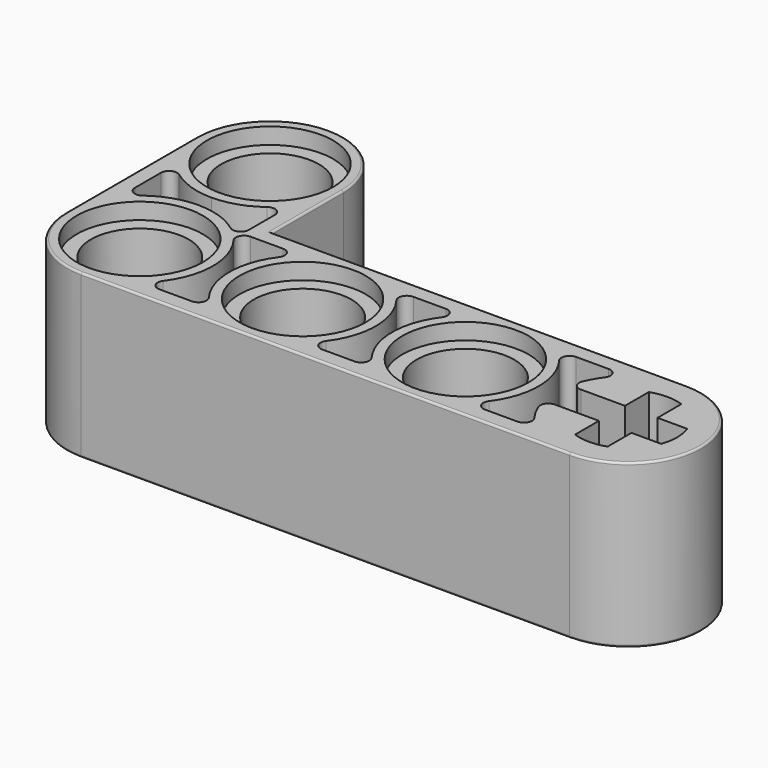
from build123d import *

# Parameters (mm, degrees)
F2_DEPTH  = 8
F3_DEPTH  = 8.001
F4_R      = 2.4
F5_DEPTH  = 8.001
F6_R      = 3.1
F7_DEPTH  = 0.8
F8_R      = 3.1
F9_DEPTH  = 0.8
F10_R     = 0.1
F11_R     = 0.1
F13_DEPTH = 3.1
F15_DEPTH = 3.1


with BuildPart() as f2:
    # F1 (on Top) → F2 (new body)
    with BuildSketch(Plane.XY):
        with BuildLine():
            ThreePointArc((3.6, 8), (0, 11.6), (-3.6, 8))
            Line((-3.6, 8), (-3.6, 0))
            ThreePointArc((-3.6, 0), (-2.5455844123, -2.5455844123), (0, -3.6))
            Line((0, -3.6), (24, -3.6))
            ThreePointArc((24, -3.6), (27.6, 0), (24, 3.6))
            Line((24, 3.6), (3.6, 3.6))
            Line((3.6, 3.6), (3.6, 8))
        make_face()
    extrude(amount=F2_DEPTH)

    # F0 (on Top) → F3 (cut, through all)
    with BuildSketch(Plane.XY):
        with BuildLine():
            Line((20.8, 2.8), (20, 2.8))
            Line((20, 2.8), (19.2, 2.8))
            ThreePointArc((19.2, 2.8), (18.8422291236, 2.5788854382), (18.88, 2.16))
            ThreePointArc((18.88, 2.16), (19.6, 0), (18.88, -2.16))
            ThreePointArc((18.88, -2.16), (18.8422291236, -2.5788854382), (19.2, -2.8))
            Line((19.2, -2.8), (20, -2.8))
            Line((20, -2.8), (20.8, -2.8))
            ThreePointArc((20.8, -2.8), (21.1577708764, -2.5788854382), (21.12, -2.16))
            ThreePointArc((21.12, -2.16), (20.8650842723, -1.7698314554), (20.6627106808, -1.35))
            ThreePointArc((20.6627106808, -1.35), (20.7018581261, -0.9763932023), (21.0335206052, -0.8))
            Line((21.0335206052, -0.8), (23.2, -0.8))
            Line((23.2, -0.8), (23.2, -2.2627416998))
            ThreePointArc((23.2, -2.2627416998), (24, -2.4), (24.8, -2.2627416998))
            Line((24.8, -2.2627416998), (24.8, -0.8))
            Line((24.8, -0.8), (26.2627416998, -0.8))
            ThreePointArc((26.2627416998, -0.8), (26.4, 0), (26.2627416998, 0.8))
            Line((26.2627416998, 0.8), (24.8, 0.8))
            Line((24.8, 0.8), (24.8, 2.2627416998))
            ThreePointArc((24.8, 2.2627416998), (24, 2.4), (23.2, 2.2627416998))
            Line((23.2, 2.2627416998), (23.2, 0.8))
            Line((23.2, 0.8), (21.0335206052, 0.8))
            ThreePointArc((21.0335206052, 0.8), (20.7018581261, 0.9763932023), (20.6627106808, 1.35))
            ThreePointArc((20.6627106808, 1.35), (20.8650842723, 1.7698314554), (21.12, 2.16))
            ThreePointArc((21.12, 2.16), (21.1577708764, 2.5788854382), (20.8, 2.8))
        make_face()
    extrude(amount=F3_DEPTH, mode=Mode.SUBTRACT)

    # F4 (on face) → F5 (cut, through all)
    with BuildSketch(Plane.XY):
        with Locations((16, 0)):
            Circle(F4_R)
        with Locations((8, 0)):
            Circle(F4_R)
        Circle(F4_R)
        with Locations((0, 8)):
            Circle(F4_R)
    extrude(amount=F5_DEPTH, mode=Mode.SUBTRACT)

    # F6 (on face) → F7 (cut)
    with BuildSketch(Plane.XY):
        with Locations((16, 0)):
            Circle(F6_R)
        with Locations((8, 0)):
            Circle(F6_R)
        Circle(F6_R)
        with Locations((0, 8)):
            Circle(F6_R)
    extrude(amount=F7_DEPTH, mode=Mode.SUBTRACT)

    # F8 (on face) → F9 (cut)
    with BuildSketch(Plane.XY.offset(8)):
        Circle(F8_R)
        with Locations((0, 8)):
            Circle(F8_R)
        with Locations((8, 0)):
            Circle(F8_R)
        with Locations((16, 0)):
            Circle(F8_R)
    extrude(amount=-F9_DEPTH, mode=Mode.SUBTRACT)

    # F10
    f10_edges = [f2.edges().sort_by_distance(p)[0] for p in [
        (0, 11.6, 8),
        (3.6, 5.8, 8),
        (13.8, 3.6, 8),
        (27.6, 0, 8),
        (12, -3.6, 8),
        (-2.545584, -2.545584, 8),
        (-3.6, 4, 8),
    ]]
    fillet(f10_edges, radius=F10_R)

    # F11
    f11_edges = [f2.edges().sort_by_distance(p)[0] for p in [
        (12, -3.6, 0),
        (27.6, 0, 0),
        (13.8, 3.6, 0),
        (3.6, 5.8, 0),
        (0, 11.6, 0),
        (-3.6, 4, 0),
        (-2.545584, -2.545584, 0),
    ]]
    fillet(f11_edges, radius=F11_R)

    # F12 (on face) → F13 (cut)
    with BuildSketch(Plane.XY):
        with BuildLine():
            Line((4, -2.8), (4.8, -2.8))
            ThreePointArc((4.8, -2.8), (5.1577708764, -2.5788854382), (5.12, -2.16))
            ThreePointArc((5.12, -2.16), (4.4, 0), (5.12, 2.16))
            ThreePointArc((5.12, 2.16), (5.1577708764, 2.5788854382), (4.8, 2.8))
            Line((4.8, 2.8), (4, 2.8))
            Line((4, 2.8), (3.2, 2.8))
            ThreePointArc((3.2, 2.8), (2.8422291236, 2.5788854382), (2.88, 2.16))
            ThreePointArc((2.88, 2.16), (3.6, 0), (2.88, -2.16))
            ThreePointArc((2.88, -2.16), (2.8422291236, -2.5788854382), (3.2, -2.8))
            Line((3.2, -2.8), (4, -2.8))
        make_face()
        with BuildLine():
            Line((2.8, 3.2), (2.8, 4))
            Line((2.8, 4), (2.8, 4.8))
            ThreePointArc((2.8, 4.8), (2.5788854382, 5.1577708764), (2.16, 5.12))
            ThreePointArc((2.16, 5.12), (1.1384199577, 4.584740127), (0, 4.4))
            ThreePointArc((0, 4.4), (-1.1384199577, 4.584740127), (-2.16, 5.12))
            ThreePointArc((-2.16, 5.12), (-2.5788854382, 5.1577708764), (-2.8, 4.8))
            Line((-2.8, 4.8), (-2.8, 4))
            Line((-2.8, 4), (-2.8, 3.2))
            ThreePointArc((-2.8, 3.2), (-2.5788854382, 2.8422291236), (-2.16, 2.88))
            ThreePointArc((-2.16, 2.88), (-1.1384199577, 3.415259873), (0, 3.6))
            ThreePointArc((0, 3.6), (1.1384199577, 3.415259873), (2.16, 2.88))
            ThreePointArc((2.16, 2.88), (2.5788854382, 2.8422291236), (2.8, 3.2))
        make_face()
        with BuildLine():
            ThreePointArc((10.88, -2.16), (10.8422291236, -2.5788854382), (11.2, -2.8))
            Line((11.2, -2.8), (12, -2.8))
            Line((12, -2.8), (12.8, -2.8))
            ThreePointArc((12.8, -2.8), (13.1577708764, -2.5788854382), (13.12, -2.16))
            ThreePointArc((13.12, -2.16), (12.4, 0), (13.12, 2.16))
            ThreePointArc((13.12, 2.16), (13.1577708764, 2.5788854382), (12.8, 2.8))
            Line((12.8, 2.8), (12, 2.8))
            Line((12, 2.8), (11.2, 2.8))
            ThreePointArc((11.2, 2.8), (10.8422291236, 2.5788854382), (10.88, 2.16))
            ThreePointArc((10.88, 2.16), (11.6, 0), (10.88, -2.16))
        make_face()
    extrude(amount=F13_DEPTH, mode=Mode.SUBTRACT)

    # F14 (on face) → F15 (cut)
    with BuildSketch(Plane.XY.offset(8)):
        with BuildLine():
            ThreePointArc((10.88, -2.16), (10.8422291236, -2.5788854382), (11.2, -2.8))
            Line((11.2, -2.8), (12, -2.8))
            Line((12, -2.8), (12.8, -2.8))
            ThreePointArc((12.8, -2.8), (13.1577708764, -2.5788854382), (13.12, -2.16))
            ThreePointArc((13.12, -2.16), (12.4, 0), (13.12, 2.16))
            ThreePointArc((13.12, 2.16), (13.1577708764, 2.5788854382), (12.8, 2.8))
            Line((12.8, 2.8), (12, 2.8))
            Line((12, 2.8), (11.2, 2.8))
            ThreePointArc((11.2, 2.8), (10.8422291236, 2.5788854382), (10.88, 2.16))
            ThreePointArc((10.88, 2.16), (11.6, 0), (10.88, -2.16))
        make_face()
        with BuildLine():
            Line((4, -2.8), (4.8, -2.8))
            ThreePointArc((4.8, -2.8), (5.1577708764, -2.5788854382), (5.12, -2.16))
            ThreePointArc((5.12, -2.16), (4.4, 0), (5.12, 2.16))
            ThreePointArc((5.12, 2.16), (5.1577708764, 2.5788854382), (4.8, 2.8))
            Line((4.8, 2.8), (4, 2.8))
            Line((4, 2.8), (3.2, 2.8))
            ThreePointArc((3.2, 2.8), (2.8422291236, 2.5788854382), (2.88, 2.16))
            ThreePointArc((2.88, 2.16), (3.6, 0), (2.88, -2.16))
            ThreePointArc((2.88, -2.16), (2.8422291236, -2.5788854382), (3.2, -2.8))
            Line((3.2, -2.8), (4, -2.8))
        make_face()
        with BuildLine():
            ThreePointArc((-2.16, 2.88), (-1.1384199577, 3.415259873), (0, 3.6))
            ThreePointArc((0, 3.6), (1.1384199577, 3.415259873), (2.16, 2.88))
            ThreePointArc((2.16, 2.88), (2.5788854382, 2.8422291236), (2.8, 3.2))
            Line((2.8, 3.2), (2.8, 4))
            Line((2.8, 4), (2.8, 4.8))
            ThreePointArc((2.8, 4.8), (2.5788854382, 5.1577708764), (2.16, 5.12))
            ThreePointArc((2.16, 5.12), (1.1384199577, 4.584740127), (0, 4.4))
            ThreePointArc((0, 4.4), (-1.1384199577, 4.584740127), (-2.16, 5.12))
            ThreePointArc((-2.16, 5.12), (-2.5788854382, 5.1577708764), (-2.8, 4.8))
            Line((-2.8, 4.8), (-2.8, 4))
            Line((-2.8, 4), (-2.8, 3.2))
            ThreePointArc((-2.8, 3.2), (-2.5788854382, 2.8422291236), (-2.16, 2.88))
        make_face()
    extrude(amount=-F15_DEPTH, mode=Mode.SUBTRACT)


solid = f2.part
